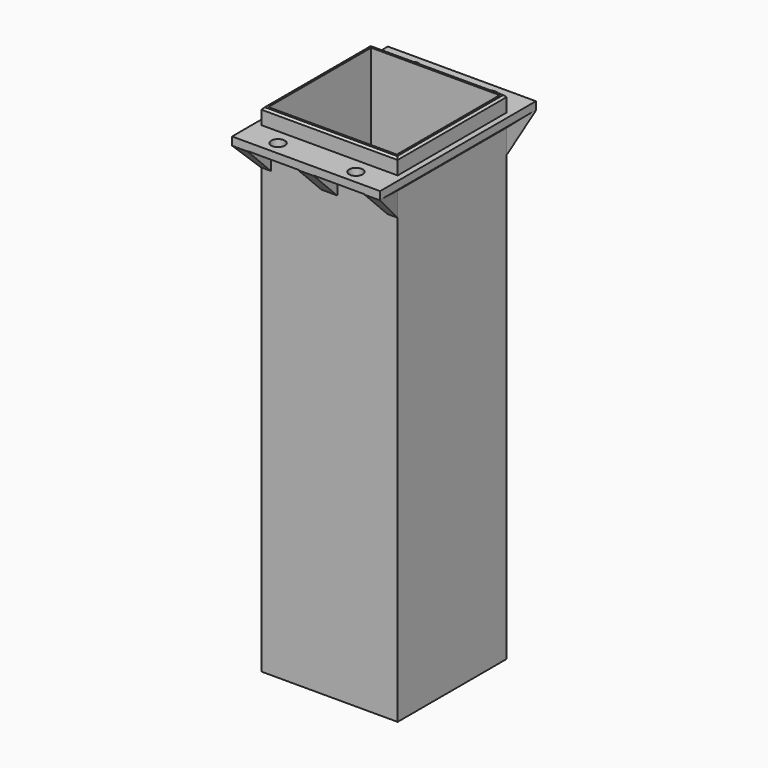
from build123d import *

# Parameters (mm, degrees)
SKETCH_W        = 35
SKETCH_H        = 35
SKETCH_W_2      = 26
SKETCH_H_2      = 3
PAD_DEPTH       = 1.5
SKETCH001_W     = 35
SKETCH001_H     = 35
SKETCH001_W_2   = 33
SKETCH001_H_2   = 33
PAD001_DEPTH    = 120
CHAMFER_SIZE    = 1.5
SKETCH002_W     = 38
SKETCH002_H     = 50
SKETCH002_R     = 1.75
SKETCH002_W_2   = 33
SKETCH002_H_2   = 33
PAD002_DEPTH    = 2
SKETCH003_W     = 35
SKETCH003_H     = 35
SKETCH003_W_2   = 33
SKETCH003_H_2   = 33
PAD003_DEPTH    = 4
CHAMFER001_SIZE = 0.5
SKETCH004_W     = 4
SKETCH004_H     = 7.5
PAD004_DEPTH    = 7.5
CHAMFER002_SIZE = 7.4
CHAMFER003_SIZE = 1.4


with BuildPart() as part:
    # Sketch → Pad (new body)
    with BuildSketch(Plane.XY):
        with Locations((-17.5, 17.5)):
            Rectangle(SKETCH_W, SKETCH_H)
        with Locations((-17.5, 8.5)):
            Rectangle(SKETCH_W_2, SKETCH_H_2, mode=Mode.SUBTRACT)
    extrude(amount=PAD_DEPTH)

    # Sketch001 (on Face10 of Pad) → Pad001 (join)
    with BuildSketch(Plane.XY.offset(1.5)):
        with Locations((-17.5, 17.5)):
            Rectangle(SKETCH001_W, SKETCH001_H)
        with Locations((-17.5, 17.5)):
            Rectangle(SKETCH001_W_2, SKETCH001_H_2, mode=Mode.SUBTRACT)
    extrude(amount=PAD001_DEPTH)

    # Chamfer
    chamfer_edges = [part.edges().sort_by_distance(p)[0] for p in [
        (-17.5, 1, 1.5),
        (-34, 17.5, 1.5),
        (-1, 17.5, 1.5),
        (-17.5, 34, 1.5),
    ]]
    chamfer(chamfer_edges, length=CHAMFER_SIZE)

    # Sketch002 (on Face15 of Chamfer) → Pad002 (join)
    with BuildSketch(Plane.XY.offset(121.5)):
        with Locations((-17.5, 17.5)):
            Rectangle(SKETCH002_W, SKETCH002_H)
        with Locations((-27.5, -4)):
            Circle(SKETCH002_R, mode=Mode.SUBTRACT)
        with Locations((-7.5, -4)):
            Circle(SKETCH002_R, mode=Mode.SUBTRACT)
        with Locations((-27.5, 39)):
            Circle(SKETCH002_R, mode=Mode.SUBTRACT)
        with Locations((-7.5, 39)):
            Circle(SKETCH002_R, mode=Mode.SUBTRACT)
        with Locations((-17.5, 17.5)):
            Rectangle(SKETCH002_W_2, SKETCH002_H_2, mode=Mode.SUBTRACT)
    extrude(amount=PAD002_DEPTH)

    # Sketch003 (on Face17 of Pad002) → Pad003 (join)
    with BuildSketch(Plane.XY.offset(123.5)):
        with Locations((-17.5, 17.5)):
            Rectangle(SKETCH003_W, SKETCH003_H)
        with Locations((-17.5, 17.5)):
            Rectangle(SKETCH003_W_2, SKETCH003_H_2, mode=Mode.SUBTRACT)
    extrude(amount=PAD003_DEPTH)

    # Chamfer001
    chamfer001_edges = [part.edges().sort_by_distance(p)[0] for p in [
        (-35, 17.5, 127.5),
        (-17.5, 0, 127.5),
        (-17.5, 35, 127.5),
        (0, 17.5, 127.5),
    ]]
    chamfer(chamfer001_edges, length=CHAMFER001_SIZE)

    # Sketch004 (on Face32 of Chamfer001) → Pad004 (join)
    with BuildSketch(Plane(origin=(0, 0, 121.5), x_dir=(1, 0, 0), z_dir=(0, 0, -1))):
        Polygon((-35, 0), (-36.5, 7.5), (-32.5, 7.5), (-32.5, 0), align=None)
        Polygon((0, 0), (1.5, 7.5), (-2.5, 7.5), (-2.5, 0), align=None)
        with Locations((-17.5, 3.75)):
            Rectangle(SKETCH004_W, SKETCH004_H)
        Polygon((-35, -35), (-36.5, -42.5), (-32.5, -42.5), (-32.5, -35), align=None)
        Polygon((0, -35), (1.5, -42.5), (-2.5, -42.5), (-3.628958, -35), align=None)
        with Locations((-17.5, -38.75)):
            Rectangle(SKETCH004_W, SKETCH004_H)
    extrude(amount=PAD004_DEPTH)

    # Chamfer002
    chamfer002_edges = [part.edges().sort_by_distance(p)[0] for p in [
        (-34.5, -7.5, 114),
        (-17.5, -7.5, 114),
        (-0.5, -7.5, 114),
        (-34.5, 42.5, 114),
        (-17.5, 42.5, 114),
        (-0.5, 42.5, 114),
    ]]
    chamfer(chamfer002_edges, length=CHAMFER002_SIZE)

    # Chamfer003
    chamfer003_edges = [part.edges().sort_by_distance(p)[0] for p in [
        (-35, 17.5, 121.5),
        (0, 17.5, 121.5),
    ]]
    chamfer(chamfer003_edges, length=CHAMFER003_SIZE)


solid = part.part
